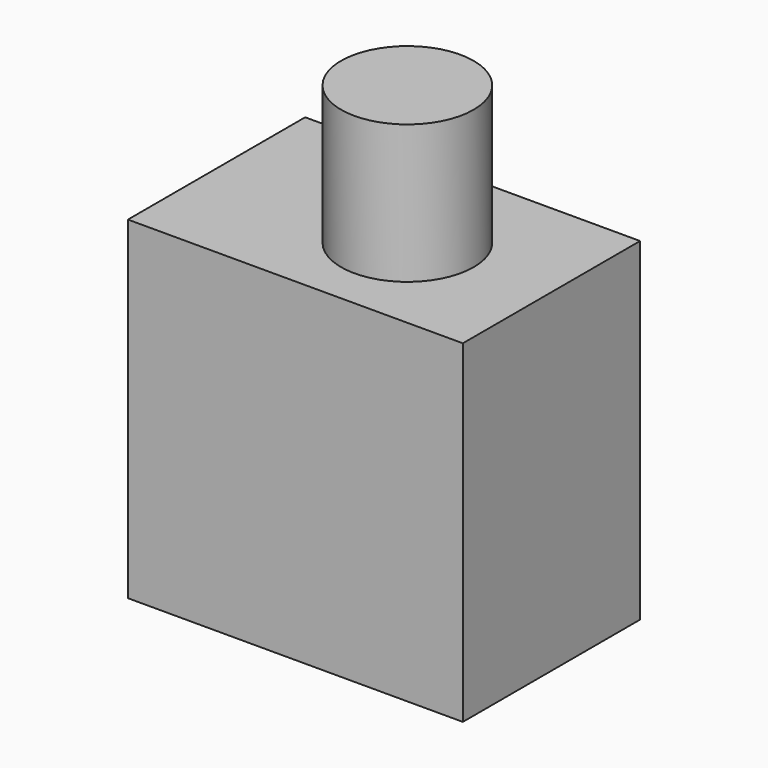
from build123d import *

# Parameters (mm, degrees)
F0_W     = 76.282457
F0_H     = 75.917773
F1_DEPTH = 50.45855
F2_R     = 15.096722
F3_DEPTH = 31.567339


with BuildPart() as f1:
    # F0 (on Front) → F1 (new body)
    with BuildSketch(Plane.XZ):
        with Locations((-38.141228, -37.958886)):
            Rectangle(F0_W, F0_H)
    extrude(amount=F1_DEPTH)

    # F2 (on face) → F3 (join)
    with BuildSketch(Plane.XY):
        with Locations((-31.907231, -26.368879)):
            Circle(F2_R)
    extrude(amount=F3_DEPTH)


solid = f1.part
